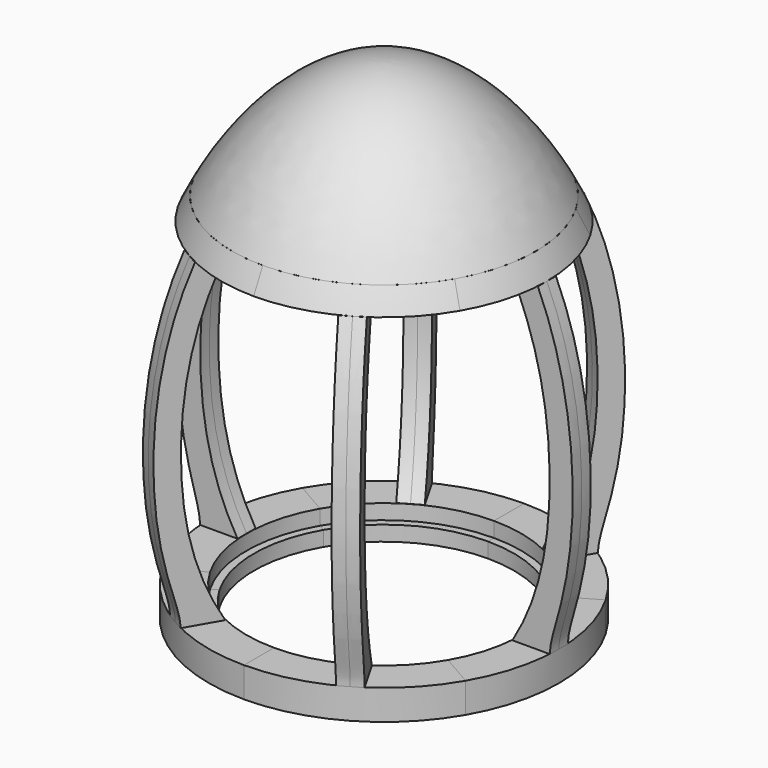
from build123d import *

# Parameters (mm, degrees)
F1_DEPTH      = 76.2
F2_COUNT      = 6
F3_ANGLE_BACK = 30
F3_ANGLE      = 60
F4_COUNT      = 6
F5_ANGLE_BACK = 30
F5_ANGLE      = 60
F6_COUNT      = 6


with BuildPart() as f1:
    # F0 (on Front) → F1 (new body, symmetric)
    with BuildSketch(Plane.XZ):
        with BuildLine():
            add(Edge.make_bspline(
                [(-1099.6887199782, 1008.0922653193), (-1100.0337344398, 1007.3338657486), (-1329.3225968452, 502.576775956), (-1377.2601767834, -395.2960237062), (-1222.9775693795, -953.8734029081), (-1181.8412542343, -1091.579079628), (-1181.8412542343, -1150.9077346807)],
                knots=[0.3364637021, 0.3364637021, 0.3364637021, 0.3364637021, 0.3369736623, 0.675814076, 0.8805104312, 1, 1, 1, 1], degree=3))
            Line((-1181.8412542343, -1150.9077346807), (-927.8412542343, -1150.9077346807))
            add(Edge.make_bspline(
                [(-927.8412542343, -1150.9077346807), (-1116.0754534599, -839.7431185847), (-1243.5716770375, -126.3422574808), (-1114.0437083882, 637.5344643087), (-930.9359849962, 1008.0922653193)],
                knots=[0.2469302761, 0.2469302761, 0.2469302761, 0.2469302761, 0.4876340437, 0.7376984774, 0.7376984774, 0.7376984774, 0.7376984774], degree=3))
            Line((-930.9359849962, 1008.0922653193), (-1099.6887199782, 1008.0922653193))
        make_face()
    extrude(amount=F1_DEPTH, both=True)


with BuildPart() as f2_1:
    # F2: instance of F1
    add(f1.part.rotate(Axis((0, 0, 1876.9995654606), (0, 0, -1)), 1 * 360 / F2_COUNT))


with BuildPart() as f2_2:
    # F2: instance of F1
    add(f1.part.rotate(Axis((0, 0, 1876.9995654606), (0, 0, -1)), 2 * 360 / F2_COUNT))


with BuildPart() as f2_3:
    # F2: instance of F1
    add(f1.part.rotate(Axis((0, 0, 1876.9995654606), (0, 0, -1)), 3 * 360 / F2_COUNT))


with BuildPart() as f2_4:
    # F2: instance of F1
    add(f1.part.rotate(Axis((0, 0, 1876.9995654606), (0, 0, -1)), 4 * 360 / F2_COUNT))


with BuildPart() as f2_5:
    # F2: instance of F1
    add(f1.part.rotate(Axis((0, 0, 1876.9995654606), (0, 0, -1)), 5 * 360 / F2_COUNT))


with BuildPart() as f3:
    # F0 (on Front) → F3 (revolve)
    with BuildSketch(Plane.XZ, mode=Mode.PRIVATE) as f3_sk:
        with BuildLine():
            add(Edge.make_bspline(
                [(-1023.328218776, 1160.4922653193), (-1050.7332203892, 1110.5595368516), (-1076.2487623673, 1059.6172179521), (-1099.6887199782, 1008.0922653193)],
                knots=[0.3018174881, 0.3018174881, 0.3018174881, 0.3018174881, 0.3364637021, 0.3364637021, 0.3364637021, 0.3364637021], degree=3))
            Line((-1099.6887199782, 1008.0922653193), (-930.9359849962, 1008.0922653193))
            add(Edge.make_bspline(
                [(-930.9359849962, 1008.0922653193), (-926.6509509397, 1016.7639519517), (-900.9142471882, 1068.0191768651), (-872.9091034464, 1118.9021894984), (-848.1202588462, 1160.4922653193)],
                knots=[0.7376984774, 0.7376984774, 0.7376984774, 0.7376984774, 0.743550413, 0.7723279874, 0.7723279874, 0.7723279874, 0.7723279874], degree=3))
            Line((-848.1202588462, 1160.4922653193), (-1023.328218776, 1160.4922653193))
        make_face()
    revolve(f3_sk.sketch.rotate(Axis((0, 0, 1876.9995654606), (0, 0, -1)), -F3_ANGLE_BACK), axis=Axis((0, 0, 1876.9995654606), (0, 0, -1)), revolution_arc=F3_ANGLE)


with BuildPart() as f4_1:
    # F4: instance of F3
    add(f3.part.rotate(Axis((0, 0, 1876.9995654606), (0, 0, -1)), 1 * 360 / F4_COUNT))


with BuildPart() as f4_2:
    # F4: instance of F3
    add(f3.part.rotate(Axis((0, 0, 1876.9995654606), (0, 0, -1)), 2 * 360 / F4_COUNT))


with BuildPart() as f4_3:
    # F4: instance of F3
    add(f3.part.rotate(Axis((0, 0, 1876.9995654606), (0, 0, -1)), 3 * 360 / F4_COUNT))


with BuildPart() as f4_4:
    # F4: instance of F3
    add(f3.part.rotate(Axis((0, 0, 1876.9995654606), (0, 0, -1)), 4 * 360 / F4_COUNT))


with BuildPart() as f4_5:
    # F4: instance of F3
    add(f3.part.rotate(Axis((0, 0, 1876.9995654606), (0, 0, -1)), 5 * 360 / F4_COUNT))


with BuildPart() as f5:
    # F0 (on Front) → F5 (revolve)
    with BuildSketch(Plane.XZ, mode=Mode.PRIVATE) as f5_sk:
        Polygon((-927.8412542343, -1150.9077346807), (-1181.8412542343, -1150.9077346807), (-1181.8412542343, -1354.1077346807), (-877.0412542343, -1354.1077346807), (-877.0412542343, -1252.5077346807), (-927.8412542343, -1252.5077346807), align=None)
    revolve(f5_sk.sketch.rotate(Axis((0, 0, 1876.9995654606), (0, 0, -1)), -F5_ANGLE_BACK), axis=Axis((0, 0, 1876.9995654606), (0, 0, -1)), revolution_arc=F5_ANGLE)


with BuildPart() as f6_1:
    # F6: instance of F5
    add(f5.part.rotate(Axis((0, 0, 1876.9995654606), (0, 0, -1)), 1 * 360 / F6_COUNT))


with BuildPart() as f6_2:
    # F6: instance of F5
    add(f5.part.rotate(Axis((0, 0, 1876.9995654606), (0, 0, -1)), 2 * 360 / F6_COUNT))


with BuildPart() as f6_3:
    # F6: instance of F5
    add(f5.part.rotate(Axis((0, 0, 1876.9995654606), (0, 0, -1)), 3 * 360 / F6_COUNT))


with BuildPart() as f6_4:
    # F6: instance of F5
    add(f5.part.rotate(Axis((0, 0, 1876.9995654606), (0, 0, -1)), 4 * 360 / F6_COUNT))


with BuildPart() as f6_5:
    # F6: instance of F5
    add(f5.part.rotate(Axis((0, 0, 1876.9995654606), (0, 0, -1)), 5 * 360 / F6_COUNT))


with BuildPart() as f7:
    # F0 (on Front) → F7 (revolve)
    with BuildSketch(Plane.XZ):
        with BuildLine():
            add(Edge.make_bspline(
                [(0, 1953.3363603202), (-402.4669546989, 1953.8450046064), (-784.5919242944, 1595.4768982699), (-1023.328218776, 1160.4922653193)],
                knots=[0, 0, 0, 0, 0.3018174881, 0.3018174881, 0.3018174881, 0.3018174881], degree=3))
            Line((-1023.328218776, 1160.4922653193), (-848.1202588462, 1160.4922653193))
            add(Edge.make_bspline(
                [(-848.1202588462, 1160.4922653193), (-652.0048370274, 1489.5295962092), (-360.9888404674, 1775.105638859), (0, 1800.6627706009)],
                knots=[0.7723279874, 0.7723279874, 0.7723279874, 0.7723279874, 1, 1, 1, 1], degree=3))
            Line((0, 1800.6627706009), (0, 1953.3363603202))
        make_face()
    revolve(axis=Axis((0, 0, 1876.9995654606), (0, 0, -1)))


solid = Compound([f1.part, f2_1.part, f2_2.part, f2_3.part, f2_4.part, f2_5.part, f3.part, f4_1.part, f4_2.part, f4_3.part, f4_4.part, f4_5.part, f5.part, f6_1.part, f6_2.part, f6_3.part, f6_4.part, f6_5.part, f7.part])
